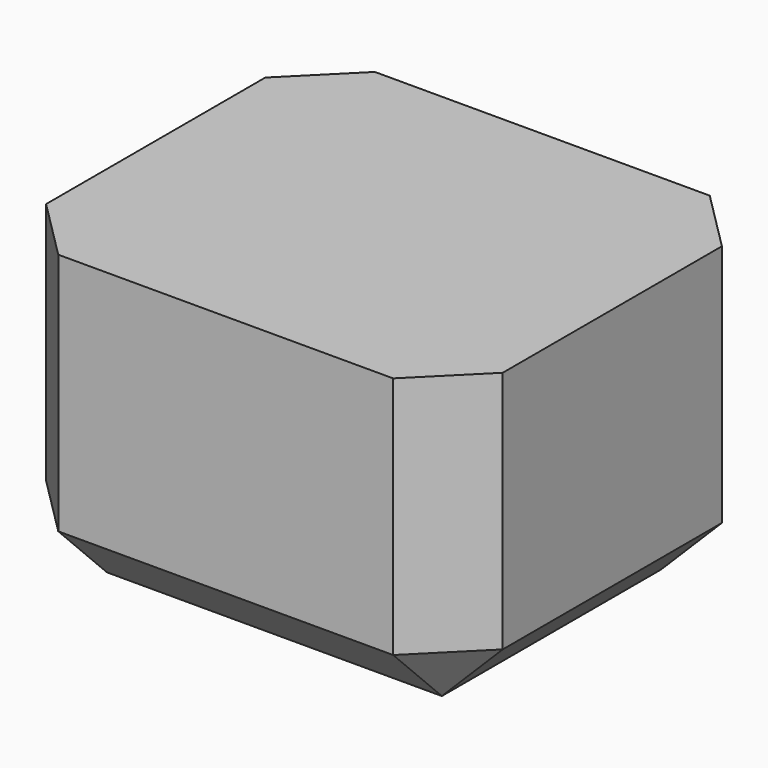
from build123d import *

# Parameters (mm, degrees)
F0_W     = 38.1
F0_H     = 33.02
F1_DEPTH = 25.4
F2_SIZE  = 5.08


with BuildPart() as f1:
    # F0 (on Top) → F1 (new body)
    with BuildSketch(Plane.XY):
        with Locations((19.05, 16.51)):
            Rectangle(F0_W, F0_H)
    extrude(amount=-F1_DEPTH)

    # F2
    f2_edges = [f1.edges().sort_by_distance(p)[0] for p in [
        (38.1, 0, -12.7),
        (38.1, 33.02, -12.7),
        (38.1, 16.51, -25.4),
        (19.05, 0, -25.4),
        (0, 0, -12.7),
        (19.05, 33.02, -25.4),
        (0, 33.02, -12.7),
        (0, 16.51, -25.4),
    ]]
    chamfer(f2_edges, length=F2_SIZE)


solid = f1.part
